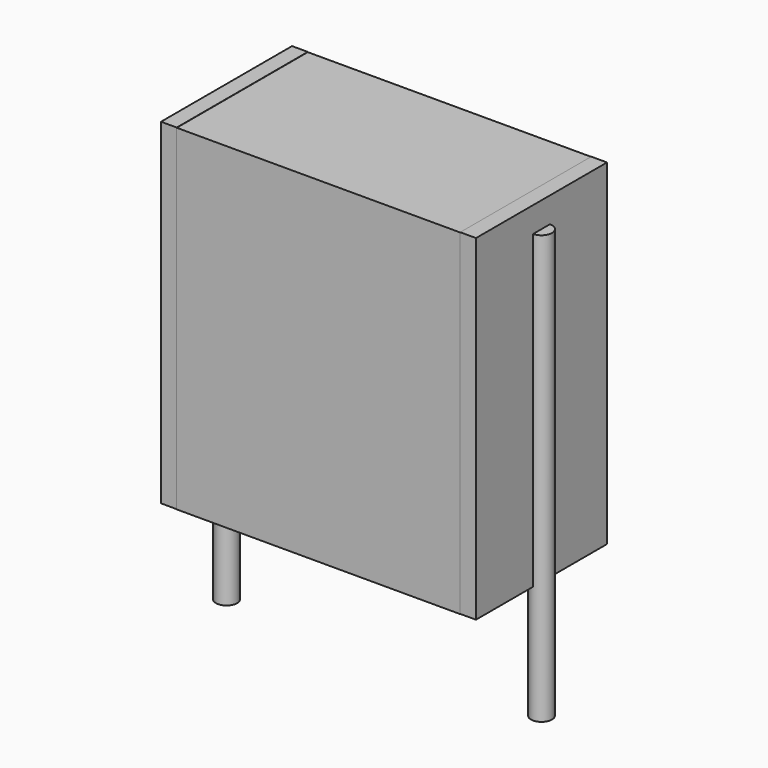
from build123d import *

# Parameters (mm, degrees)
SKETCH_W          = 6.75
SKETCH_H          = 3.9
PAD_DEPTH         = 8
SKETCH001_R       = 0.25
PAD001_DEPTH      = 7
PAD001_DEPTH_BACK = 3.2
SKETCH002_W       = 0.375
SKETCH002_H       = 3.9
PAD002_DEPTH      = 8


with BuildPart() as pad:
    # Sketch → Pad (new body)
    with BuildSketch(Plane.XY.offset(0.1)):
        with Locations((3.75, 0)):
            Rectangle(SKETCH_W, SKETCH_H)
    extrude(amount=PAD_DEPTH)


with BuildPart() as pad001:
    # Sketch001 → Pad001 (new body, two sides)
    with BuildSketch(Plane.XY.offset(0.5)) as pad001_sk:
        Circle(SKETCH001_R)
        with Locations((7.5, 0)):
            Circle(SKETCH001_R)
    extrude(amount=PAD001_DEPTH)
    extrude(pad001_sk.sketch, amount=-PAD001_DEPTH_BACK)


with BuildPart() as pad002:
    # Sketch002 → Pad002 (new body)
    with BuildSketch(Plane.XY.offset(0.105)):
        with Locations((0.1875, 0)):
            Rectangle(SKETCH002_W, SKETCH002_H)
        with Locations((7.3125, 0)):
            Rectangle(SKETCH002_W, SKETCH002_H)
    extrude(amount=PAD002_DEPTH)


solid = Compound([pad.part, pad001.part, pad002.part])
